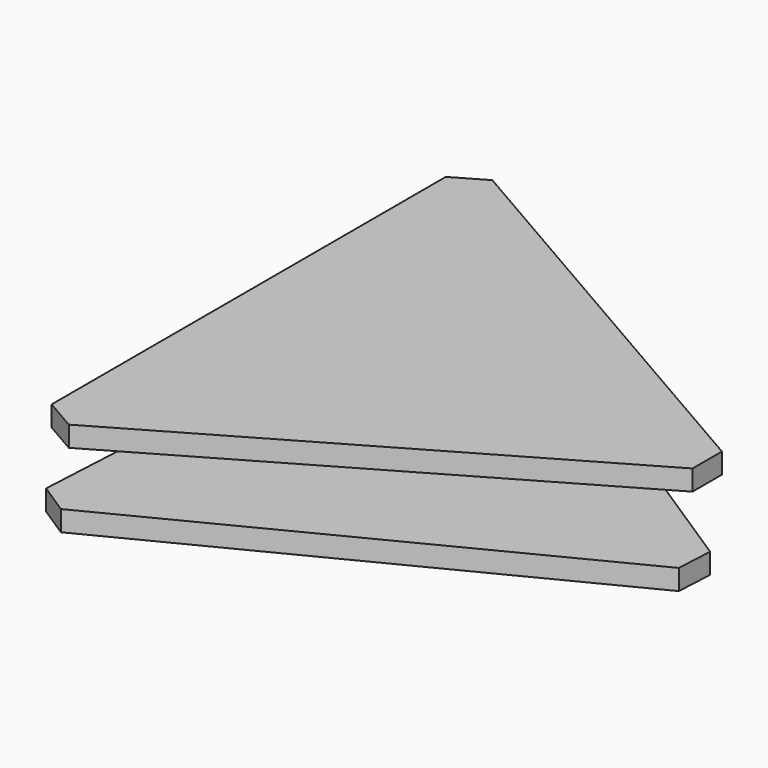
from build123d import *

# Parameters (mm, degrees)
F2_DEPTH = 5
F3_SIZE  = 9
F5_ANGLE = 3


with BuildPart() as f2:
    # F0 (on Top) → F2 (new body)
    with BuildSketch(Plane.XY):
        Polygon((-40, -69.282032), (80, 0), (-40, 69.282032), align=None)
    extrude(amount=F2_DEPTH)

    # F3
    f3_edges = [f2.edges().sort_by_distance(p)[0] for p in [
        (-40, -69.282032, 2.5),
        (80, 0, 2.5),
        (-40, 69.282032, 2.5),
    ]]
    chamfer(f3_edges, length=F3_SIZE)


with BuildPart() as f4_1:
    # F4: copy of F2
    add(f2.part.moved(Location((0, 0, 20))))


with BuildPart() as f2_1:
    # F5: moved
    add(f2.part.rotate(Axis((0, 0, 19.715426), (0, 0, -1)), F5_ANGLE))


solid = Compound([f4_1.part, f2_1.part])
